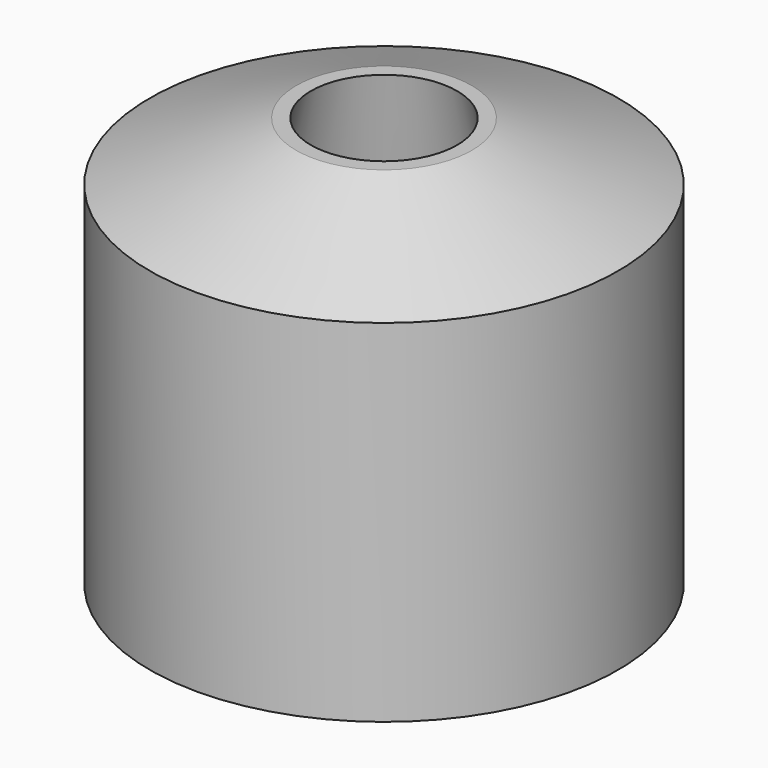
from build123d import *

# Parameters (mm, degrees)
F1_W     = 4
F1_H     = 7
F5_SIZE2 = 2.5
F5_SIZE  = 1


with BuildPart() as f2:
    # F1 (on Right) → F2 (revolve)
    with BuildSketch(Plane.YZ):
        with Locations((2, 3.5)):
            Rectangle(F1_W, F1_H)
    revolve(axis=Axis((0, 0, 3.5), (0, 0, -1)))


with BuildPart() as f3:
    # F0 (on Right) → F3 (revolve)
    with BuildSketch(Plane.YZ):
        Polygon((0, 7), (0, 0), (2.5, 0), (1.25, 7), align=None)
    revolve(axis=Axis((0, 0, 3.5), (0, 0, -1)))


with BuildPart() as f2_1:
    add(f2.part)

    # F4: cut F3
    add(f3.part, mode=Mode.SUBTRACT)

    # F5
    f5_edges = [f2_1.edges().sort_by_distance(p)[0] for p in [
        (0, -4, 7),
    ]]
    f5_side = f2_1.faces().sort_by_distance((0, -4, 3.5))[0]
    chamfer(f5_edges, length=F5_SIZE, length2=F5_SIZE2, reference=f5_side)


solid = f2_1.part
